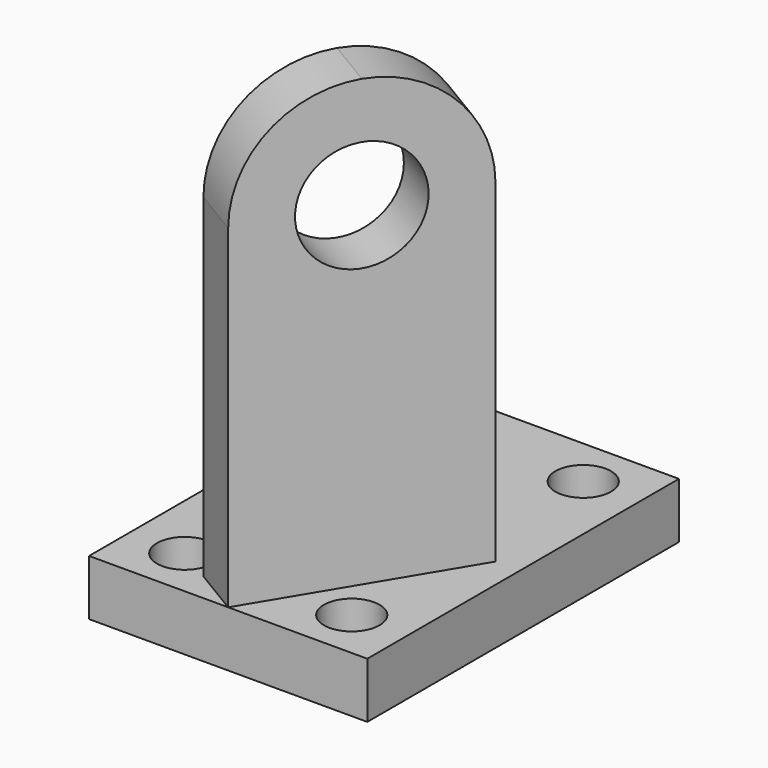
from build123d import *

# Parameters (mm, degrees)
F0_R     = 6.35
F1_DEPTH = 12.7
F2_DEPTH = 114.3
F4_DEPTH = 73.0029466568
F3_R     = 12.7
F5_DEPTH = 73.0029466568
F6_DEPTH = 114.301


with BuildPart() as f1:
    # F0 (on Top) → F1 (new body)
    with BuildSketch(Plane.XY):
        Polygon((0, 88.9), (0, 0), (31.75, 0), (63.5, 0), (63.5, 88.9), align=None)
        with Locations((12.7, 11.43)):
            Circle(F0_R, mode=Mode.SUBTRACT)
        with Locations((50.8, 11.43)):
            Circle(F0_R, mode=Mode.SUBTRACT)
        Polygon((57.9139342054, 43.5440988757), (31.75, 0), (20.8639752811, 6.5409835514), (47.0279094865, 50.085082427), align=None, mode=Mode.SUBTRACT)
        with Locations((12.7, 77.47)):
            Circle(F0_R, mode=Mode.SUBTRACT)
        with Locations((50.8, 77.47)):
            Circle(F0_R, mode=Mode.SUBTRACT)
        with Locations((50.8, 77.47)):
            Circle(F0_R)
        with Locations((12.7, 77.47)):
            Circle(F0_R)
        Polygon((20.8639752811, 6.5409835514), (31.75, 0), (57.9139342054, 43.5440988757), (47.0279094865, 50.085082427), align=None)
        with Locations((50.8, 11.43)):
            Circle(F0_R)
        with Locations((12.7, 11.43)):
            Circle(F0_R)
    extrude(amount=F1_DEPTH)

    # F0 (on Top) → F2 (join)
    with BuildSketch(Plane.XY):
        Polygon((20.8639752811, 6.5409835514), (31.75, 0), (57.9139342054, 43.5440988757), (47.0279094865, 50.085082427), align=None)
    extrude(amount=F2_DEPTH)

    # F3 (on face) → F4 (cut, through all)
    with BuildSketch(Plane(origin=(23.3278610592, -14.0167930366, 0), x_dir=(0.5150380749, 0.8571673007, 0), z_dir=(0.8571673007, -0.5150380749, 0))):
        with BuildLine():
            Line((16.3524588784, 114.3), (16.3524588784, 88.9))
            ThreePointArc((16.3524588784, 88.9), (23.7919466363, 106.8605122421), (41.7524588784, 114.3))
            Line((41.7524588784, 114.3), (16.3524588784, 114.3))
        make_face()
        with BuildLine():
            Line((67.1524588784, 114.3), (41.7524588784, 114.3))
            ThreePointArc((41.7524588784, 114.3), (59.7129711205, 106.8605122421), (67.1524588784, 88.9))
            Line((67.1524588784, 88.9), (67.1524588784, 114.3))
        make_face()
    extrude(amount=-F4_DEPTH, mode=Mode.SUBTRACT)

    # F3 (on face) → F5 (cut, through all)
    with BuildSketch(Plane(origin=(23.3278610592, -14.0167930366, 0), x_dir=(0.5150380749, 0.8571673007, 0), z_dir=(0.8571673007, -0.5150380749, 0))):
        with Locations((41.7524588784, 88.9)):
            Circle(F3_R)
    extrude(amount=-F5_DEPTH, mode=Mode.SUBTRACT)

    # F0 (on Top) → F6 (cut, through all)
    with BuildSketch(Plane.XY):
        with Locations((50.8, 11.43)):
            Circle(F0_R)
        with Locations((50.8, 77.47)):
            Circle(F0_R)
        with Locations((12.7, 77.47)):
            Circle(F0_R)
        with Locations((12.7, 11.43)):
            Circle(F0_R)
    extrude(amount=F6_DEPTH, mode=Mode.SUBTRACT)


solid = f1.part
